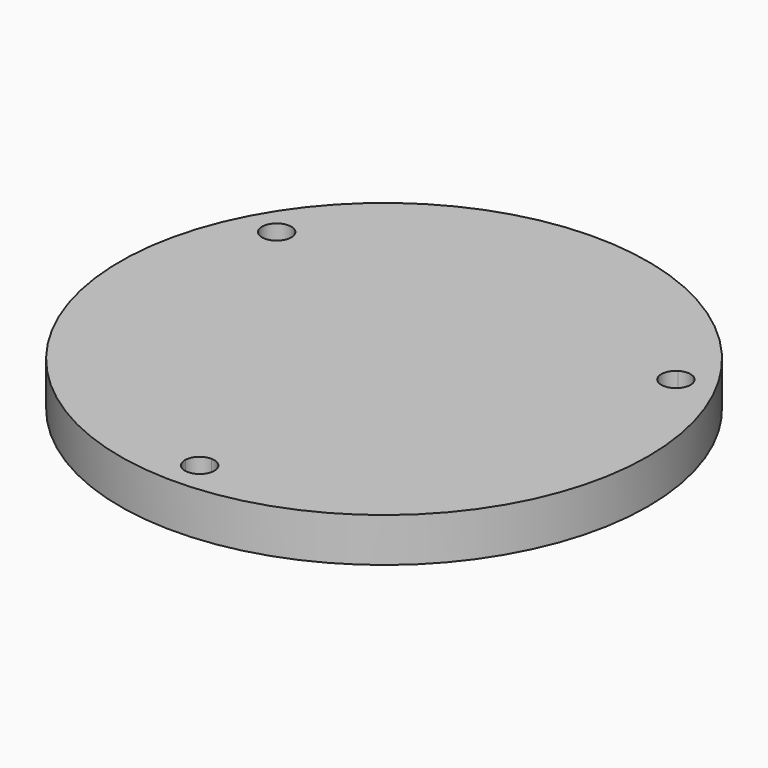
from build123d import *

# Parameters (mm, degrees)
F0_R     = 76.2
F1_DEPTH = 12.7


with BuildPart() as f1:
    # F0 (on Top) → F1 (new body)
    with BuildSketch(Plane.XY):
        Circle(F0_R)
        with BuildLine():
            ThreePointArc((59.6237228365, 29.5575367566), (64.7938107049, 15.1788800094), (66.548, 0))
            ThreePointArc((66.548, 0), (48.5236460738, -45.5422010416), (4.2142837137, -66.4144270229))
            ThreePointArc((4.2142837137, -66.4144270229), (4.2158708952, -66.4812051295), (4.2164, -66.548))
            ThreePointArc((4.2164, -66.548), (-0.0667948705, -70.7638708952), (-4.2142837137, -66.4144270229))
            ThreePointArc((-4.2142837137, -66.4144270229), (-57.632258571, -33.274), (-59.6237228365, 29.5575367566))
            ThreePointArc((-59.6237228365, 29.5575367566), (-61.2837680836, 35.3822), (-55.4094391228, 36.8568902663))
            ThreePointArc((-55.4094391228, 36.8568902663), (0, 66.548), (55.4094391228, 36.8568902663))
            ThreePointArc((55.4094391228, 36.8568902663), (59.682347964, 36.9584487296), (61.848658571, 33.274))
            ThreePointArc((61.848658571, 33.274), (61.2499124302, 31.1082184977), (59.6237228365, 29.5575367566))
        make_face(mode=Mode.SUBTRACT)
        with BuildLine():
            ThreePointArc((-4.2142837137, -66.4144270229), (-2.9338397928, -63.5196979955), (0, -62.3316))
            Line((0, -62.3316), (0, 0))
            Line((0, 0), (-53.9807490585, 31.1658))
            ThreePointArc((-53.9807490585, 31.1658), (-56.4765920012, 29.2190692066), (-59.6237228365, 29.5575367566))
            ThreePointArc((-59.6237228365, 29.5575367566), (-57.632258571, -33.274), (-4.2142837137, -66.4144270229))
        make_face()
        with BuildLine():
            Line((0, 0), (53.9807490585, 31.1658))
            ThreePointArc((53.9807490585, 31.1658), (53.5427522084, 34.3006287889), (55.4094391228, 36.8568902663))
            ThreePointArc((55.4094391228, 36.8568902663), (0, 66.548), (-55.4094391228, 36.8568902663))
            ThreePointArc((-55.4094391228, 36.8568902663), (-53.9478098415, 35.324089393), (-53.415858571, 33.274))
            ThreePointArc((-53.415858571, 33.274), (-53.5595289171, 32.1827153782), (-53.9807490585, 31.1658))
            Line((-53.9807490585, 31.1658), (0, 0))
        make_face()
        with BuildLine():
            ThreePointArc((4.2142837137, -66.4144270229), (48.5236460738, -45.5422010416), (66.548, 0))
            ThreePointArc((66.548, 0), (64.7938107049, 15.1788800094), (59.6237228365, 29.5575367566))
            ThreePointArc((59.6237228365, 29.5575367566), (56.4765920012, 29.2190692066), (53.9807490585, 31.1658))
            Line((53.9807490585, 31.1658), (0, 0))
            Line((0, 0), (0, -62.3316))
            ThreePointArc((0, -62.3316), (2.9338397928, -63.5196979955), (4.2142837137, -66.4144270229))
        make_face()
    extrude(amount=F1_DEPTH)


solid = f1.part
